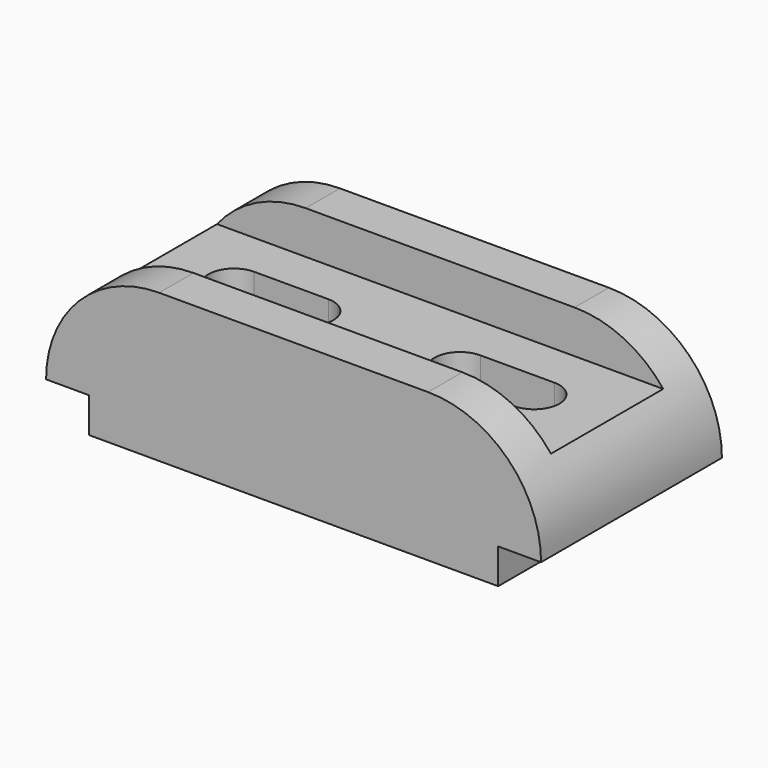
from build123d import *

# Parameters (mm, degrees)
F1_DEPTH = 58
F2_W     = 36
F2_H     = 11
F3_DEPTH = 150
F5_DEPTH = 60


with BuildPart() as f1:
    # F0 (on Front) → F1 (new body)
    with BuildSketch(Plane.XZ):
        with BuildLine():
            Line((0, 9), (0, 0))
            Line((0, 0), (105, 0))
            Line((105, 0), (105, 9))
            Line((105, 9), (116, 9))
            ThreePointArc((116, 9), (107.506097, 29.506097), (87, 38))
            Line((87, 38), (18, 38))
            ThreePointArc((18, 38), (-2.506097, 29.506097), (-11, 9))
            Line((-11, 9), (0, 9))
        make_face()
    extrude(amount=-F1_DEPTH)

    # F2 (on Right) → F3 (cut, symmetric)
    with BuildSketch(Plane.YZ):
        with Locations((29, 32.5)):
            Rectangle(F2_W, F2_H)
    extrude(amount=F3_DEPTH, both=True, mode=Mode.SUBTRACT)

    # F4 (on face) → F5 (cut)
    with BuildSketch(Plane(origin=(0, 0, 0), x_dir=(1, 0, 0), z_dir=(0, 0, -1))):
        with BuildLine():
            Line((91, -22.5), (72, -22.5))
            ThreePointArc((72, -22.5), (65.5, -29), (72, -35.5))
            Line((72, -35.5), (91, -35.5))
            ThreePointArc((91, -35.5), (97.5, -29), (91, -22.5))
        make_face()
        with BuildLine():
            Line((33, -22.5), (14, -22.5))
            ThreePointArc((14, -22.5), (7.5, -29), (14, -35.5))
            Line((14, -35.5), (33, -35.5))
            ThreePointArc((33, -35.5), (39.5, -29), (33, -22.5))
        make_face()
    extrude(amount=-F5_DEPTH, mode=Mode.SUBTRACT)


solid = f1.part
